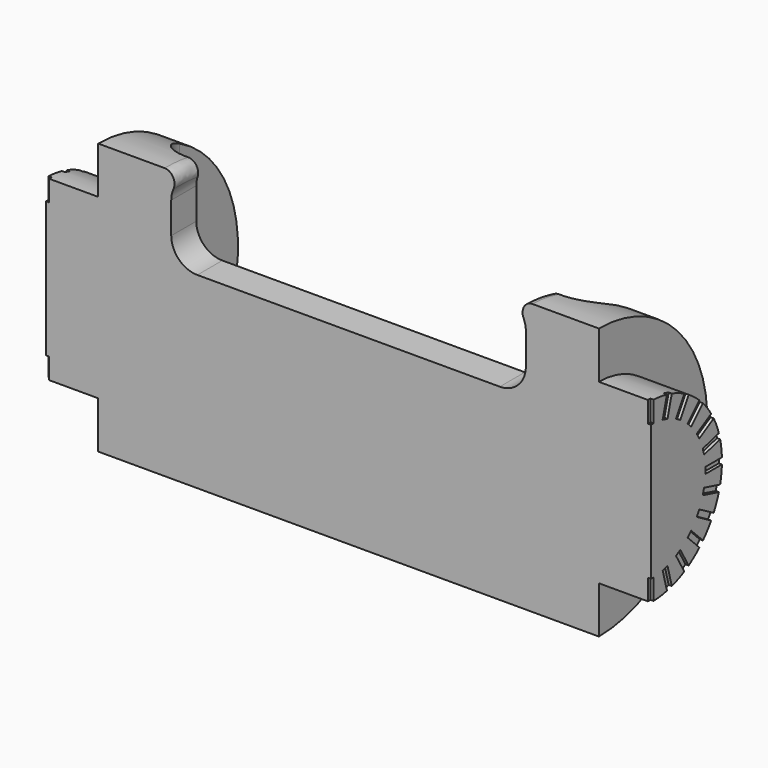
from build123d import *

# Parameters (mm, degrees)
REVOLUTION001_ANGLE                = -180
POCKET007_DEPTH                    = 95.122861
SKETCH021_W                        = 42
SKETCH021_H                        = 30
POCKET009_DEPTH                    = 10.001
SKETCH022_W                        = 0.6
SKETCH022_H                        = 2
POCKET010_DEPTH                    = 0.3
SKETCH022_POLARPATTERN001_2_W      = 0.6
SKETCH022_POLARPATTERN001_2_H      = 2
POCKET010_POLARPATTERN001_2_DEPTH  = 0.3
SKETCH022_POLARPATTERN001_3_W      = 0.6
SKETCH022_POLARPATTERN001_3_H      = 2
POCKET010_POLARPATTERN001_3_DEPTH  = 0.3
SKETCH022_POLARPATTERN001_4_W      = 0.6
SKETCH022_POLARPATTERN001_4_H      = 2
POCKET010_POLARPATTERN001_4_DEPTH  = 0.3
SKETCH022_POLARPATTERN001_5_W      = 0.6
SKETCH022_POLARPATTERN001_5_H      = 2
POCKET010_POLARPATTERN001_5_DEPTH  = 0.3
SKETCH022_POLARPATTERN001_6_W      = 0.6
SKETCH022_POLARPATTERN001_6_H      = 2
POCKET010_POLARPATTERN001_6_DEPTH  = 0.3
SKETCH022_POLARPATTERN001_7_W      = 0.6
SKETCH022_POLARPATTERN001_7_H      = 2
POCKET010_POLARPATTERN001_7_DEPTH  = 0.3
SKETCH022_POLARPATTERN001_8_W      = 0.6
SKETCH022_POLARPATTERN001_8_H      = 2
POCKET010_POLARPATTERN001_8_DEPTH  = 0.3
SKETCH022_POLARPATTERN001_9_W      = 0.6
SKETCH022_POLARPATTERN001_9_H      = 2
POCKET010_POLARPATTERN001_9_DEPTH  = 0.3
SKETCH022_POLARPATTERN001_10_W     = 0.6
SKETCH022_POLARPATTERN001_10_H     = 2
POCKET010_POLARPATTERN001_10_DEPTH = 0.3
SKETCH022_POLARPATTERN001_11_W     = 0.6
SKETCH022_POLARPATTERN001_11_H     = 2
POCKET010_POLARPATTERN001_11_DEPTH = 0.3
SKETCH022_POLARPATTERN001_12_W     = 0.6
SKETCH022_POLARPATTERN001_12_H     = 2
POCKET010_POLARPATTERN001_12_DEPTH = 0.3
SKETCH022_POLARPATTERN001_13_W     = 0.6
SKETCH022_POLARPATTERN001_13_H     = 2
POCKET010_POLARPATTERN001_13_DEPTH = 0.3
FILLET006_R                        = 1
FILLET007_R                        = 3


with BuildPart() as part:
    # Sketch010 → Revolution001 (revolve)
    with BuildSketch(Plane.XZ):
        Polygon((0, 13), (24, 13), (24, 8.5), (29, 8.5), (29, 0), (0, 0), align=None)
    revolution001 = revolve(axis=Axis((0, 0, 0), (1, 0, 0)), revolution_arc=REVOLUTION001_ANGLE)

    # Sketch016 → Pocket007 (cut, through all)
    with BuildSketch(Plane(origin=(0, 0, 0), x_dir=(-1, 0, 0), z_dir=(0, 1, 0))):
        with BuildLine():
            Line((-14.5, 5), (0, 5))
            Line((0, 5), (0, 13))
            Line((-14.5, 13), (0, 13))
            ThreePointArc((-14.5, 13), (-16.267767, 12.267767), (-17, 10.5))
            Line((-17, 7.5), (-17, 10.5))
            ThreePointArc((-17, 7.5), (-16.267767, 5.732233), (-14.5, 5))
        make_face()
    pocket007 = extrude(amount=POCKET007_DEPTH, mode=Mode.SUBTRACT)

    # Mirrored001: Revolution001, Pocket007 across Sketch010 V_Axis
    add(revolution001.mirror(Plane(origin=(0, 0, 0), x_dir=(0, -1, 0), z_dir=(1, 0, 0))))
    add(pocket007.mirror(Plane(origin=(0, 0, 0), x_dir=(0, -1, 0), z_dir=(1, 0, 0))), mode=Mode.SUBTRACT)

    # Sketch021 → Pocket009 (cut, through all)
    with BuildSketch(Plane(origin=(0, 3, 0), x_dir=(-1, 0, 0), z_dir=(0, 1, 0))):
        Rectangle(SKETCH021_W, SKETCH021_H)
    extrude(amount=POCKET009_DEPTH, mode=Mode.SUBTRACT)

    # Sketch022 → Pocket010 (cut)
    with BuildSketch(Plane.YZ.offset(29)):
        with Locations((0, 7.5)):
            Rectangle(SKETCH022_W, SKETCH022_H)
    pocket010 = extrude(amount=-POCKET010_DEPTH, mode=Mode.SUBTRACT)

    # Sketch022 PolarPattern001 2 → Pocket010 PolarPattern001 2 (cut)
    with BuildSketch(Plane(origin=(29, 0, 0), x_dir=(0, 0.965926, -0.258819), z_dir=(1, 0, 0))):
        with Locations((0, 7.5)):
            Rectangle(SKETCH022_POLARPATTERN001_2_W, SKETCH022_POLARPATTERN001_2_H)
    pocket010_polarpattern001_2 = extrude(amount=-POCKET010_POLARPATTERN001_2_DEPTH, mode=Mode.SUBTRACT)

    # Sketch022 PolarPattern001 3 → Pocket010 PolarPattern001 3 (cut)
    with BuildSketch(Plane(origin=(29, 0, 0), x_dir=(0, 0.866025, -0.5), z_dir=(1, 0, 0))):
        with Locations((0, 7.5)):
            Rectangle(SKETCH022_POLARPATTERN001_3_W, SKETCH022_POLARPATTERN001_3_H)
    pocket010_polarpattern001_3 = extrude(amount=-POCKET010_POLARPATTERN001_3_DEPTH, mode=Mode.SUBTRACT)

    # Sketch022 PolarPattern001 4 → Pocket010 PolarPattern001 4 (cut)
    with BuildSketch(Plane(origin=(29, 0, 0), x_dir=(0, 0.707107, -0.707107), z_dir=(1, 0, 0))):
        with Locations((0, 7.5)):
            Rectangle(SKETCH022_POLARPATTERN001_4_W, SKETCH022_POLARPATTERN001_4_H)
    pocket010_polarpattern001_4 = extrude(amount=-POCKET010_POLARPATTERN001_4_DEPTH, mode=Mode.SUBTRACT)

    # Sketch022 PolarPattern001 5 → Pocket010 PolarPattern001 5 (cut)
    with BuildSketch(Plane(origin=(29, 0, 0), x_dir=(0, 0.5, -0.866025), z_dir=(1, 0, 0))):
        with Locations((0, 7.5)):
            Rectangle(SKETCH022_POLARPATTERN001_5_W, SKETCH022_POLARPATTERN001_5_H)
    pocket010_polarpattern001_5 = extrude(amount=-POCKET010_POLARPATTERN001_5_DEPTH, mode=Mode.SUBTRACT)

    # Sketch022 PolarPattern001 6 → Pocket010 PolarPattern001 6 (cut)
    with BuildSketch(Plane(origin=(29, 0, 0), x_dir=(0, 0.258819, -0.965926), z_dir=(1, 0, 0))):
        with Locations((0, 7.5)):
            Rectangle(SKETCH022_POLARPATTERN001_6_W, SKETCH022_POLARPATTERN001_6_H)
    pocket010_polarpattern001_6 = extrude(amount=-POCKET010_POLARPATTERN001_6_DEPTH, mode=Mode.SUBTRACT)

    # Sketch022 PolarPattern001 7 → Pocket010 PolarPattern001 7 (cut)
    with BuildSketch(Plane(origin=(29, 0, 0), x_dir=(0, 0, -1), z_dir=(1, 0, 0))):
        with Locations((0, 7.5)):
            Rectangle(SKETCH022_POLARPATTERN001_7_W, SKETCH022_POLARPATTERN001_7_H)
    pocket010_polarpattern001_7 = extrude(amount=-POCKET010_POLARPATTERN001_7_DEPTH, mode=Mode.SUBTRACT)

    # Sketch022 PolarPattern001 8 → Pocket010 PolarPattern001 8 (cut)
    with BuildSketch(Plane(origin=(29, 0, 0), x_dir=(0, -0.258819, -0.965926), z_dir=(1, 0, 0))):
        with Locations((0, 7.5)):
            Rectangle(SKETCH022_POLARPATTERN001_8_W, SKETCH022_POLARPATTERN001_8_H)
    pocket010_polarpattern001_8 = extrude(amount=-POCKET010_POLARPATTERN001_8_DEPTH, mode=Mode.SUBTRACT)

    # Sketch022 PolarPattern001 9 → Pocket010 PolarPattern001 9 (cut)
    with BuildSketch(Plane(origin=(29, 0, 0), x_dir=(0, -0.5, -0.866025), z_dir=(1, 0, 0))):
        with Locations((0, 7.5)):
            Rectangle(SKETCH022_POLARPATTERN001_9_W, SKETCH022_POLARPATTERN001_9_H)
    pocket010_polarpattern001_9 = extrude(amount=-POCKET010_POLARPATTERN001_9_DEPTH, mode=Mode.SUBTRACT)

    # Sketch022 PolarPattern001 10 → Pocket010 PolarPattern001 10 (cut)
    with BuildSketch(Plane(origin=(29, 0, 0), x_dir=(0, -0.707107, -0.707107), z_dir=(1, 0, 0))):
        with Locations((0, 7.5)):
            Rectangle(SKETCH022_POLARPATTERN001_10_W, SKETCH022_POLARPATTERN001_10_H)
    pocket010_polarpattern001_10 = extrude(amount=-POCKET010_POLARPATTERN001_10_DEPTH, mode=Mode.SUBTRACT)

    # Sketch022 PolarPattern001 11 → Pocket010 PolarPattern001 11 (cut)
    with BuildSketch(Plane(origin=(29, 0, 0), x_dir=(0, -0.866025, -0.5), z_dir=(1, 0, 0))):
        with Locations((0, 7.5)):
            Rectangle(SKETCH022_POLARPATTERN001_11_W, SKETCH022_POLARPATTERN001_11_H)
    pocket010_polarpattern001_11 = extrude(amount=-POCKET010_POLARPATTERN001_11_DEPTH, mode=Mode.SUBTRACT)

    # Sketch022 PolarPattern001 12 → Pocket010 PolarPattern001 12 (cut)
    with BuildSketch(Plane(origin=(29, 0, 0), x_dir=(0, -0.965926, -0.258819), z_dir=(1, 0, 0))):
        with Locations((0, 7.5)):
            Rectangle(SKETCH022_POLARPATTERN001_12_W, SKETCH022_POLARPATTERN001_12_H)
    pocket010_polarpattern001_12 = extrude(amount=-POCKET010_POLARPATTERN001_12_DEPTH, mode=Mode.SUBTRACT)

    # Sketch022 PolarPattern001 13 → Pocket010 PolarPattern001 13 (cut)
    with BuildSketch(Plane(origin=(29, 0, 0), x_dir=(0, -1, 0), z_dir=(1, 0, 0))):
        with Locations((0, 7.5)):
            Rectangle(SKETCH022_POLARPATTERN001_13_W, SKETCH022_POLARPATTERN001_13_H)
    pocket010_polarpattern001_13 = extrude(amount=-POCKET010_POLARPATTERN001_13_DEPTH, mode=Mode.SUBTRACT)

    # Mirrored005: Pocket010, Pocket010 PolarPattern001 2, Pocket010 PolarPattern001 3, Pocket010 PolarPattern001 4, Pocket010 PolarPattern001 5, Pocket010 PolarPattern001 6, Pocket010 PolarPattern001 7, Pocket010 PolarPattern001 8, Pocket010 PolarPattern001 9, Pocket010 PolarPattern001 10, Pocket010 PolarPattern001 11, Pocket010 PolarPattern001 12, Pocket010 PolarPattern001 13 across YZ
    add(pocket010.mirror(Plane.YZ), mode=Mode.SUBTRACT)
    add(pocket010_polarpattern001_2.mirror(Plane.YZ), mode=Mode.SUBTRACT)
    add(pocket010_polarpattern001_3.mirror(Plane.YZ), mode=Mode.SUBTRACT)
    add(pocket010_polarpattern001_4.mirror(Plane.YZ), mode=Mode.SUBTRACT)
    add(pocket010_polarpattern001_5.mirror(Plane.YZ), mode=Mode.SUBTRACT)
    add(pocket010_polarpattern001_6.mirror(Plane.YZ), mode=Mode.SUBTRACT)
    add(pocket010_polarpattern001_7.mirror(Plane.YZ), mode=Mode.SUBTRACT)
    add(pocket010_polarpattern001_8.mirror(Plane.YZ), mode=Mode.SUBTRACT)
    add(pocket010_polarpattern001_9.mirror(Plane.YZ), mode=Mode.SUBTRACT)
    add(pocket010_polarpattern001_10.mirror(Plane.YZ), mode=Mode.SUBTRACT)
    add(pocket010_polarpattern001_11.mirror(Plane.YZ), mode=Mode.SUBTRACT)
    add(pocket010_polarpattern001_12.mirror(Plane.YZ), mode=Mode.SUBTRACT)
    add(pocket010_polarpattern001_13.mirror(Plane.YZ), mode=Mode.SUBTRACT)

    # Fillet006
    fillet006_edges = [part.edges().sort_by_distance(p)[0] for p in [
        (-15.154666, 1.503535, 12.91276),
        (15.154666, 1.503535, 12.91276),
    ]]
    fillet(fillet006_edges, radius=FILLET006_R)

    # Fillet007
    fillet007_edges = [part.edges().sort_by_distance(p)[0] for p in [
        (-21, 3, 0),
        (21, 3, 0),
    ]]
    fillet(fillet007_edges, radius=FILLET007_R)


solid = part.part
